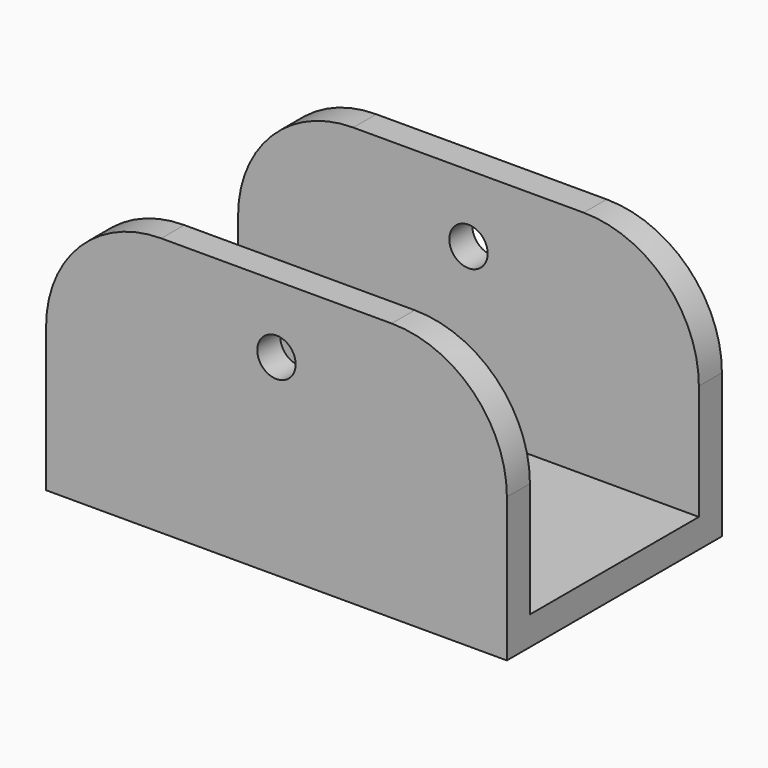
from build123d import *

# Parameters (mm, degrees)
F0_R     = 3.175
F1_DEPTH = 44.45
F2_W     = 34.925
F2_H     = 40.217792
F3_DEPTH = 76.201


with BuildPart() as f1:
    # F0 (on Front) → F1 (new body)
    with BuildSketch(Plane.XZ):
        with BuildLine():
            Line((0, 23.8125), (0, 0))
            Line((0, 0), (76.2, 0))
            Line((76.2, 0), (76.2, 23.8125))
            ThreePointArc((76.2, 23.8125), (70.620384, 37.282884), (57.15, 42.8625))
            Line((57.15, 42.8625), (19.05, 42.8625))
            ThreePointArc((19.05, 42.8625), (5.579616, 37.282884), (0, 23.8125))
        make_face()
        with Locations((38.1, 31.75)):
            Circle(F0_R, mode=Mode.SUBTRACT)
    extrude(amount=F1_DEPTH)

    # F2 (on face) → F3 (cut, through all)
    with BuildSketch(Plane.YZ.offset(76.2)):
        with Locations((-22.225, 24.871396)):
            Rectangle(F2_W, F2_H)
    extrude(amount=-F3_DEPTH, mode=Mode.SUBTRACT)


solid = f1.part
